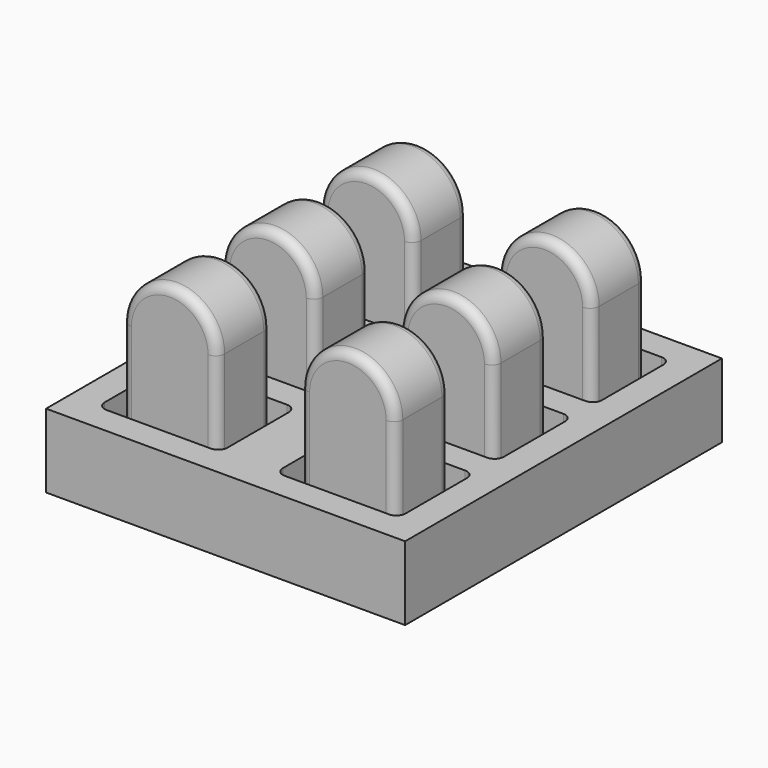
from build123d import *

# Parameters (mm, degrees)
PAD003_DEPTH           = 7.3
FILLET001_R            = 1
SKETCH003_W            = 38.9
SKETCH003_H            = 42.9
PAD002_DEPTH           = 8
POCKET001_DEPTH        = 4
LINEARPATTERN_COUNT    = 3
LINEARPATTERN_PITCH    = 13.3
POCKET002_DEPTH        = 4
LINEARPATTERN001_COUNT = 3
LINEARPATTERN001_PITCH = 13.3
SKETCH007_R            = 0.75
POCKET003_DEPTH        = 5
LINEARPATTERN002_COUNT = 3
LINEARPATTERN002_PITCH = 13.3
SKETCH008_R            = 0.75
POCKET004_DEPTH        = 5
LINEARPATTERN003_COUNT = 3
LINEARPATTERN003_PITCH = 13.3


with BuildPart() as finger001:
    # Sketch006 → Pad003 (new body)
    with BuildSketch(Plane.XZ):
        with BuildLine():
            Line((5.15, 0), (5.15, 11.85))
            ThreePointArc((5.15, 11.85), (0, 17), (-5.15, 11.85))
            Line((-5.15, 11.85), (-5.15, 0))
            Line((-5.15, 0), (5.15, 0))
        make_face()
    extrude(amount=PAD003_DEPTH)

    # Fillet001
    fillet001_edges = [finger001.edges().sort_by_distance(p)[0] for p in [
        (-5.15, -7.3, 5.925),
        (0, -7.3, 17),
        (5.15, -7.3, 5.925),
        (5.15, 0, 5.925),
        (0, 0, 17),
        (-5.15, 0, 5.925),
    ]]
    fillet(fillet001_edges, radius=FILLET001_R)


with BuildPart() as finger001_1:
    # Body003 placement: moved
    add(finger001.part.moved(Location((9.65, 16.95, 4))))


with BuildPart() as finger001_2:
    # Clone006 placement: moved
    add(finger001_1.part.moved(Location((0, -13.3, 0))))


with BuildPart() as finger002:
    # Clone007 base: copy of finger001
    add(finger001_2.part)


with BuildPart() as finger002_1:
    # Clone007 placement: moved
    add(finger002.part.moved(Location((0, -13.3, 0))))


with BuildPart() as finger003:
    # Clone008 base: copy of finger002
    add(finger002_1.part)


with BuildPart() as finger003_1:
    # Clone008 placement: moved
    add(finger003.part.moved(Location((-19.3, 26.6, 0))))


with BuildPart() as finger004:
    # Clone009 base: copy of finger003
    add(finger003_1.part)


with BuildPart() as finger004_1:
    # Clone009 placement: moved
    add(finger004.part.moved(Location((0, -13.3, 0))))


with BuildPart() as finger005:
    # Clone010 base: copy of finger004
    add(finger004_1.part)


with BuildPart() as finger005_1:
    # Clone010 placement: moved
    add(finger005.part.moved(Location((0, -13.3, 0))))


with BuildPart() as finger006:
    # Clone011 base: copy of finger005
    add(finger005_1.part)


with BuildPart() as finger006_1:
    # Clone011 placement: moved
    add(finger006.part.moved(Location((19.3, 26.6, 0))))


with BuildPart() as mold_top:
    # Sketch003 → Pad002 (new body)
    with BuildSketch(Plane.XY):
        Rectangle(SKETCH003_W, SKETCH003_H)
    extrude(amount=PAD002_DEPTH)

    # Sketch004 (on Face6 of Pad002) → Pocket001 (cut)
    with BuildSketch(Plane.XY.offset(8)):
        with BuildLine():
            Line((-16.3, -9.15), (-16.3, -17.45))
            ThreePointArc((-16.3, -17.45), (-16.007107, -18.157107), (-15.3, -18.45))
            Line((-15.3, -18.45), (-4, -18.45))
            ThreePointArc((-4, -18.45), (-3.292893, -18.157107), (-3, -17.45))
            Line((-3, -17.45), (-3, -9.15))
            ThreePointArc((-3, -9.15), (-3.292893, -8.442893), (-4, -8.15))
            Line((-4, -8.15), (-15.3, -8.15))
            ThreePointArc((-15.3, -8.15), (-16.007107, -8.442893), (-16.3, -9.15))
        make_face()
    pocket001 = extrude(amount=-POCKET001_DEPTH, mode=Mode.SUBTRACT)

    # LinearPattern: Pocket001 ×3
    with Locations(*[(0, i * LINEARPATTERN_PITCH, 0) for i in range(1, LINEARPATTERN_COUNT)]):
        add(pocket001, mode=Mode.SUBTRACT)

    # Sketch005 (on Face5 of LinearPattern) → Pocket002 (cut)
    with BuildSketch(Plane.XY.offset(8)):
        with BuildLine():
            Line((4, -8.15), (15.3, -8.15))
            ThreePointArc((16.3, -9.15), (16.007107, -8.442893), (15.3, -8.15))
            Line((16.3, -9.15), (16.3, -17.45))
            ThreePointArc((15.3, -18.45), (16.007107, -18.157107), (16.3, -17.45))
            Line((15.3, -18.45), (4, -18.45))
            ThreePointArc((3, -17.45), (3.292893, -18.157107), (4, -18.45))
            Line((3, -17.45), (3, -9.15))
            ThreePointArc((4, -8.15), (3.292893, -8.442893), (3, -9.15))
        make_face()
    pocket002 = extrude(amount=-POCKET002_DEPTH, mode=Mode.SUBTRACT)

    # LinearPattern001: Pocket002 ×3
    with Locations(*[(0, i * LINEARPATTERN001_PITCH, 0) for i in range(1, LINEARPATTERN001_COUNT)]):
        add(pocket002, mode=Mode.SUBTRACT)

    # Sketch007 (on Face40 of Pocket002) → Pocket003 (cut)
    with BuildSketch(Plane.XY.offset(4)):
        with Locations((-9.65, -17.7)):
            Circle(SKETCH007_R)
    pocket003 = extrude(amount=-POCKET003_DEPTH, mode=Mode.SUBTRACT)

    # LinearPattern002: Pocket003 ×3
    with Locations(*[(0, i * LINEARPATTERN002_PITCH, 0) for i in range(1, LINEARPATTERN002_COUNT)]):
        add(pocket003, mode=Mode.SUBTRACT)

    # Sketch008 (on Face61 of LinearPattern002) → Pocket004 (cut)
    with BuildSketch(Plane.XY.offset(4)):
        with Locations((9.65, -17.7)):
            Circle(SKETCH008_R)
    pocket004 = extrude(amount=-POCKET004_DEPTH, mode=Mode.SUBTRACT)

    # LinearPattern003: Pocket004 ×3
    with Locations(*[(0, i * LINEARPATTERN003_PITCH, 0) for i in range(1, LINEARPATTERN003_COUNT)]):
        add(pocket004, mode=Mode.SUBTRACT)

    # Fusion: union finger006
    add(finger006_1.part)

    # Fusion001: union finger001
    add(finger001_2.part)

    # Fusion002: union finger002
    add(finger002_1.part)

    # Fusion003: union finger003
    add(finger003_1.part)

    # Fusion004: union finger004
    add(finger004_1.part)

    # Fusion005: union finger005
    add(finger005_1.part)


with BuildPart() as mold_top_1:
    # Fusion005 placement: moved
    add(mold_top.part.moved(Location((50, 0, 0))))


solid = mold_top_1.part
